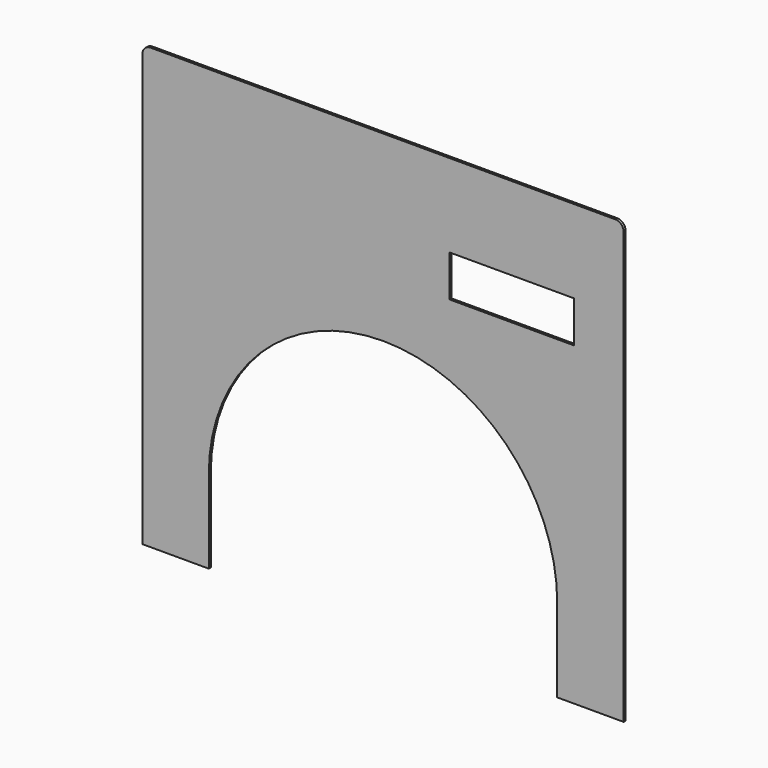
from build123d import *

# Parameters (mm, degrees)
F1_DEPTH = 3


with BuildPart() as f1:
    # F0 (on Front) → F1 (new body)
    with BuildSketch(Plane.XZ):
        with BuildLine():
            Line((280, 430), (-280, 430))
            ThreePointArc((-280, 430), (-287.071068, 427.071068), (-290, 420))
            Line((-290, 420), (-290, -100))
            Line((-290, -100), (-210, -100))
            Line((-210, -100), (-210, 0))
            ThreePointArc((-210, 0), (-148.454947, 148.529892), (0.105988, 209.999973))
            ThreePointArc((0.105988, 209.999973), (148.529892, 148.454947), (210, 0))
            Line((210, 0), (210, -100))
            Line((210, -100), (290, -100))
            Line((290, -100), (290, 420))
            ThreePointArc((290, 420), (287.071068, 427.071068), (280, 430))
        make_face()
        Polygon((230, 280), (80, 280), (80, 329.965293), (230, 330), align=None, mode=Mode.SUBTRACT)
    extrude(amount=F1_DEPTH)


solid = f1.part
